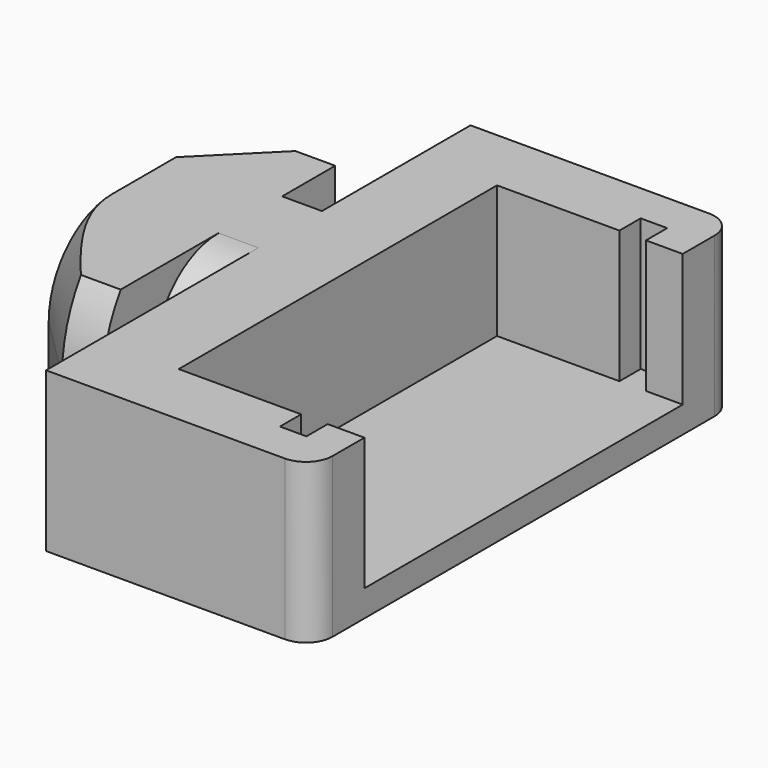
from build123d import *

# Parameters (mm, degrees)
F1_DEPTH  = 6
F3_DEPTH  = 1
F7_W      = 42.1100177336
F7_H      = 2.7686282992
F7_W_2    = 43.2923636399
F7_H_2    = 2.6041977108
F8_DEPTH  = 25
F10_DEPTH = 3
F12_DEPTH = 3


with BuildPart() as f1:
    # F0 (on Top) → F1 (new body)
    with BuildSketch(Plane.XY):
        with BuildLine():
            Line((0, 7), (0, 0))
            Line((0, 0), (9, 0))
            ThreePointArc((9, 0), (9.7071067812, 0.2928932188), (10, 1))
            Line((10, 1), (10, 2.5))
            Line((10, 2.5), (8.6160635799, 2.5))
            Line((8.6160635799, 2.5), (8.6160635799, 1.5))
            Line((8.6160635799, 1.5), (7.6160635799, 1.5))
            Line((7.6160635799, 1.5), (7.6160635799, 2.5))
            Line((7.6160635799, 2.5), (3, 2.5))
            Line((3, 2.5), (3, 17.5))
            Line((3, 17.5), (7.6160635799, 17.5))
            Line((7.6160635799, 17.5), (7.6160635799, 18.5))
            Line((7.6160635799, 18.5), (8.6160635799, 18.5))
            Line((8.6160635799, 18.5), (8.6160635799, 17.5))
            Line((8.6160635799, 17.5), (10, 17.5))
            Line((10, 17.5), (10, 19))
            ThreePointArc((10, 19), (9.7071067812, 19.7071067812), (9, 20))
            Line((9, 20), (0, 20))
            Line((0, 20), (0, 13))
            Line((0, 13), (0, 7))
        make_face()
    extrude(amount=F1_DEPTH)

    # F2 (on face) → F3 (join)
    with BuildSketch(Plane(origin=(0, 0, 0), x_dir=(1, 0, 0), z_dir=(0, 0, -1))):
        with BuildLine():
            Line((10, -19), (10, -1))
            ThreePointArc((10, -1), (9.7071067812, -0.2928932188), (9, 0))
            Line((9, 0), (0, 0))
            Line((0, 0), (0, -20))
            Line((0, -20), (9, -20))
            ThreePointArc((9, -20), (9.7071067812, -19.7071067812), (10, -19))
        make_face()
    extrude(amount=-F3_DEPTH)

    # F5 (on offset) → F6 (revolve)
    with BuildSketch(Plane(origin=(0, 0, 3), x_dir=(1, 0, 0), z_dir=(0, 0, -1))):
        Polygon((-5.5, -7), (-5.5, -10), (0, -10), (0, -7), (-1.5, -7), (-1.5, -4.5), (-3, -4.5), align=None)
    revolve(axis=Axis((-2.75, 10, 3), (-1, 0, 0)))

    # F7 (on face) → F8 (cut)
    with BuildSketch(Plane(origin=(-5.5, 0, 0), x_dir=(0, -1, 0), z_dir=(-1, 0, 0))):
        with Locations((-5.2348260069, -1.3843141496)):
            Rectangle(F7_W, F7_H)
        with Locations((-5.5655788165, 7.3020988554)):
            Rectangle(F7_W_2, F7_H_2)
    extrude(amount=-F8_DEPTH, mode=Mode.SUBTRACT)

    # F9 (on face) → F10 (join)
    with BuildSketch(Plane(origin=(0, 0, 0), x_dir=(1, 0, 0), z_dir=(0, 0, -1))):
        Polygon((-5.5, -7), (-5.5, -10), (0, -10), (0, -7), (-1.5, -7), (-1.5, -4.5), (-3, -4.5), align=None)
    extrude(amount=-F10_DEPTH)

    # F11 (on face) → F12 (join)
    with BuildSketch(Plane.XY.offset(6)):
        Polygon((-5.5, 13), (-5.5, 10), (0, 10), (0, 13), (-1.5, 13), (-1.5, 15.5), (-3, 15.5), align=None)
    extrude(amount=-F12_DEPTH)


solid = f1.part
